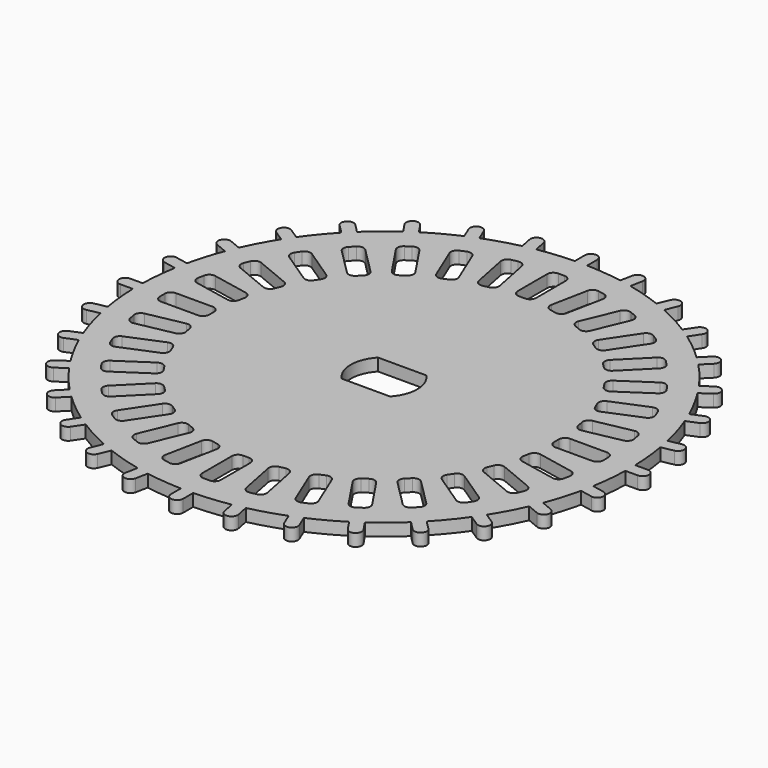
from build123d import *

# Parameters (mm, degrees)
SKETCH_R              = 20
PAD_DEPTH             = 1
POCKET_DEPTH          = 5
POLARPATTERN_COUNT    = 32
PAD001_DEPTH          = 1
POLARPATTERN001_COUNT = 32


with BuildPart() as part:
    # Sketch → Pad (new body)
    with BuildSketch(Plane.XY):
        Circle(SKETCH_R)
        with BuildLine():
            Line((-1.966596, 1.85), (1.966596, 1.85))
            ThreePointArc((1.966596, -1.85), (2.7, 0), (1.966596, 1.85))
            Line((-1.966596, -1.85), (1.966596, -1.85))
            ThreePointArc((-1.966596, 1.85), (-2.7, 0), (-1.966596, -1.85))
        make_face(mode=Mode.SUBTRACT)
    extrude(amount=PAD_DEPTH)

    # Sketch001 → Pocket (cut)
    with BuildSketch(Plane.XY):
        with BuildLine():
            ThreePointArc((-0.25, 18), (-0.603553, 17.853553), (-0.75, 17.5))
            Line((-0.75, 17.5), (-0.75, 14.5))
            ThreePointArc((-0.75, 14.5), (-0.603553, 14.146447), (-0.25, 14))
            Line((-0.25, 14), (0.249991, 14))
            ThreePointArc((0.249991, 14), (0.60355, 14.146443), (0.75, 14.5))
            Line((0.75, 14.5), (0.75, 17.5))
            ThreePointArc((0.75, 17.5), (0.603553, 17.853553), (0.25, 18))
            Line((0.25, 18), (-0.25, 18))
        make_face()
    pocket = extrude(amount=POCKET_DEPTH, mode=Mode.SUBTRACT)

    # PolarPattern: Pocket ×32 about axis
    polarpattern_axis = Axis((0, 0, 0), (0, 0, 1))
    for i in range(1, POLARPATTERN_COUNT):
        add(pocket.rotate(polarpattern_axis, i * 360 / POLARPATTERN_COUNT), mode=Mode.SUBTRACT)

    # Sketch002 → Pad001 (join)
    with BuildSketch(Plane.XY):
        with BuildLine():
            Line((-0.5, 19.993749), (-0.5, 21))
            ThreePointArc((0.5, 21), (0, 21.5), (-0.5, 21))
            Line((0.5, 19.993749), (0.5, 21))
            ThreePointArc((0.5, 19.993749), (0, 20), (-0.5, 19.993749))
        make_face()
    pad001 = extrude(amount=PAD001_DEPTH)

    # PolarPattern001: Pad001 ×32 about axis
    polarpattern001_axis = Axis((0, 0, 0), (0, 0, 1))
    for i in range(1, POLARPATTERN001_COUNT):
        add(pad001.rotate(polarpattern001_axis, i * 360 / POLARPATTERN001_COUNT))


solid = part.part
